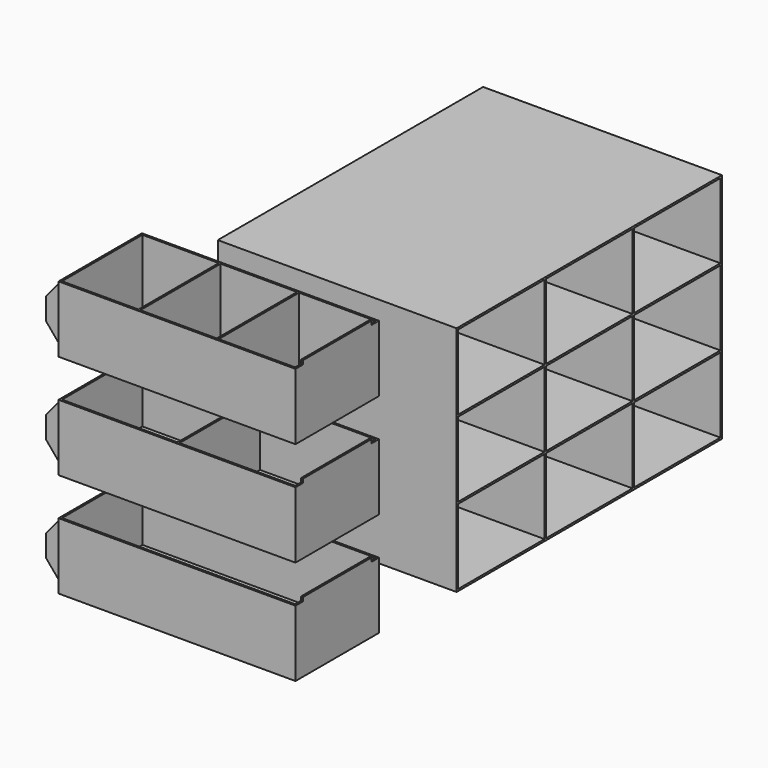
from build123d import *

# Parameters (mm, degrees)
F4_DEPTH  = 55
F3_W      = 1
F3_H      = 34
F3_W_2    = 123
F5_DEPTH  = 1
F3_W_3    = 40.3333333333
F3_W_4    = 61
F6_START  = 54
F6_DEPTH  = 1
F7_START  = 5
F3_H_2    = 2
F7_DEPTH  = 45
F8_START  = 5
F8_DEPTH  = 45
F9_START  = 50
F9_DEPTH  = 1
F10_START = 4
F10_DEPTH = 1
F12_DEPTH = 126
F11_W     = 57
F11_H     = 2.5
F13_DEPTH = 1
F15_DEPTH = 126.001


with BuildPart() as f4:
    # F3 (on Front) → F4 (new body)
    with BuildSketch(Plane.XZ):
        Polygon((0, 23.3333333333), (0, 11.6666666667), (0, 0), (125, 0), (125, 1), (125, 35), (124, 35), (124, 1), (1, 1), (1, 35), (0, 35), (0, 32.9691467762), align=None)
    extrude(amount=F4_DEPTH)

    # F3 (on Front) → F5 (join)
    with BuildSketch(Plane.XZ):
        with Locations((62.5, 18)):
            Rectangle(F3_W_2, F3_H)
    extrude(amount=F5_DEPTH)

    # F3 (on Front) → F6 (join)
    with BuildSketch(Plane.XZ.offset(F6_START)):
        with Locations((62.5, 18)):
            Rectangle(F3_W_2, F3_H)
    extrude(amount=F6_DEPTH)

    # F3 (on Front) → F7 (join)
    with BuildSketch(Plane.XZ.offset(F7_START)):
        with Locations((124.5, 36)):
            Rectangle(F3_W, F3_H_2)
    extrude(amount=F7_DEPTH)

    # F3 (on Front) → F8 (join)
    with BuildSketch(Plane.XZ.offset(F8_START)):
        Polygon((-9.7894956971, 11.6666666667), (-8.7894956971, 10.4749130741), (-8.7894956971, 22.4942337022), (0, 32.9691467762), (0, 35), (-9.7894956971, 23.3333333333), align=None)
    extrude(amount=F8_DEPTH)

    # F3 (on Front) → F9 (join)
    with BuildSketch(Plane.XZ.offset(F9_START)):
        Polygon((0, 0), (0, 11.6666666667), (0, 23.3333333333), (0, 32.9691467762), (-8.7894956971, 22.4942337022), (-8.7894956971, 10.4749130741), align=None)
        Polygon((-9.7894956971, 11.6666666667), (-8.7894956971, 10.4749130741), (-8.7894956971, 22.4942337022), (0, 32.9691467762), (0, 35), (-9.7894956971, 23.3333333333), align=None)
    extrude(amount=F9_DEPTH)

    # F3 (on Front) → F10 (join)
    with BuildSketch(Plane.XZ.offset(F10_START)):
        Polygon((0, 0), (0, 11.6666666667), (0, 23.3333333333), (0, 32.9691467762), (-8.7894956971, 22.4942337022), (-8.7894956971, 10.4749130741), align=None)
        Polygon((-9.7894956971, 11.6666666667), (-8.7894956971, 10.4749130741), (-8.7894956971, 22.4942337022), (0, 32.9691467762), (0, 35), (-9.7894956971, 23.3333333333), align=None)
    extrude(amount=F10_DEPTH)


with BuildPart() as f4b:
    # F3 (on Front) → F4, piece 2 (new body)
    with BuildSketch(Plane.XZ):
        Polygon((0, 78.3333333333), (0, 66.6666666667), (0, 55), (125, 55), (125, 56), (125, 90), (124, 90), (124, 56), (63, 56), (62, 56), (1, 56), (1, 90), (0, 90), (0, 87.9691467762), align=None)
        with Locations((62.5, 73)):
            Rectangle(F3_W, F3_H)
    extrude(amount=F4_DEPTH)

    # F3 (on Front) → F5, piece 3 (join)
    with BuildSketch(Plane.XZ):
        with Locations((93.5, 73)):
            Rectangle(F3_W_4, F3_H)
        with Locations((31.5, 73)):
            Rectangle(F3_W_4, F3_H)
    extrude(amount=F5_DEPTH)

    # F3 (on Front) → F6, piece 2 (join)
    with BuildSketch(Plane.XZ.offset(F6_START)):
        with Locations((31.5, 73)):
            Rectangle(F3_W_4, F3_H)
        with Locations((93.5, 73)):
            Rectangle(F3_W_4, F3_H)
    extrude(amount=F6_DEPTH)

    # F3 (on Front) → F7, piece 2 (join)
    with BuildSketch(Plane.XZ.offset(F7_START)):
        with Locations((124.5, 91)):
            Rectangle(F3_W, F3_H_2)
    extrude(amount=F7_DEPTH)

    # F3 (on Front) → F8, piece 2 (join)
    with BuildSketch(Plane.XZ.offset(F8_START)):
        Polygon((-9.7894956971, 66.6666666667), (-8.7894956971, 65.4749130741), (-8.7894956971, 77.4942337022), (0, 87.9691467762), (0, 90), (-9.7894956971, 78.3333333333), align=None)
    extrude(amount=F8_DEPTH)

    # F3 (on Front) → F9, piece 2 (join)
    with BuildSketch(Plane.XZ.offset(F9_START)):
        Polygon((0, 55), (0, 66.6666666667), (0, 78.3333333333), (0, 87.9691467762), (-8.7894956971, 77.4942337022), (-8.7894956971, 65.4749130741), align=None)
        Polygon((-9.7894956971, 66.6666666667), (-8.7894956971, 65.4749130741), (-8.7894956971, 77.4942337022), (0, 87.9691467762), (0, 90), (-9.7894956971, 78.3333333333), align=None)
    extrude(amount=F9_DEPTH)

    # F3 (on Front) → F10, piece 2 (join)
    with BuildSketch(Plane.XZ.offset(F10_START)):
        Polygon((-9.7894956971, 66.6666666667), (-8.7894956971, 65.4749130741), (-8.7894956971, 77.4942337022), (0, 87.9691467762), (0, 90), (-9.7894956971, 78.3333333333), align=None)
        Polygon((0, 55), (0, 66.6666666667), (0, 78.3333333333), (0, 87.9691467762), (-8.7894956971, 77.4942337022), (-8.7894956971, 65.4749130741), align=None)
    extrude(amount=F10_DEPTH)


with BuildPart() as f4c:
    # F3 (on Front) → F4, piece 3 (new body)
    with BuildSketch(Plane.XZ):
        Polygon((0, 133.3333333333), (0, 121.6666666667), (0, 110), (125, 110), (125, 111), (125, 145), (124, 145), (124, 111), (83.6666666667, 111), (82.6666666667, 111), (42.3333333333, 111), (41.3333333333, 111), (1, 111), (1, 145), (0, 145), (0, 142.9691467762), align=None)
        with Locations((41.8333333333, 128)):
            Rectangle(F3_W, F3_H)
        with Locations((83.1666666667, 128)):
            Rectangle(F3_W, F3_H)
    extrude(amount=F4_DEPTH)

    # F3 (on Front) → F5, piece 2 (join)
    with BuildSketch(Plane.XZ):
        with Locations((21.1666666667, 128)):
            Rectangle(F3_W_3, F3_H)
        with Locations((62.5, 128)):
            Rectangle(F3_W_3, F3_H)
        with Locations((103.8333333333, 128)):
            Rectangle(F3_W_3, F3_H)
    extrude(amount=F5_DEPTH)

    # F3 (on Front) → F6, piece 3 (join)
    with BuildSketch(Plane.XZ.offset(F6_START)):
        with Locations((21.1666666667, 128)):
            Rectangle(F3_W_3, F3_H)
        with Locations((62.5, 128)):
            Rectangle(F3_W_3, F3_H)
        with Locations((103.8333333333, 128)):
            Rectangle(F3_W_3, F3_H)
    extrude(amount=F6_DEPTH)

    # F3 (on Front) → F7, piece 3 (join)
    with BuildSketch(Plane.XZ.offset(F7_START)):
        with Locations((124.5, 146)):
            Rectangle(F3_W, F3_H_2)
    extrude(amount=F7_DEPTH)

    # F3 (on Front) → F8, piece 3 (join)
    with BuildSketch(Plane.XZ.offset(F8_START)):
        Polygon((-9.7894956971, 121.6666666667), (-8.7894956971, 120.4749130741), (-8.7894956971, 132.4942337022), (0, 142.9691467762), (0, 145), (-9.7894956971, 133.3333333333), align=None)
    extrude(amount=F8_DEPTH)

    # F3 (on Front) → F9, piece 3 (join)
    with BuildSketch(Plane.XZ.offset(F9_START)):
        Polygon((-9.7894956971, 121.6666666667), (-8.7894956971, 120.4749130741), (-8.7894956971, 132.4942337022), (0, 142.9691467762), (0, 145), (-9.7894956971, 133.3333333333), align=None)
        Polygon((0, 110), (0, 121.6666666667), (0, 133.3333333333), (0, 142.9691467762), (-8.7894956971, 132.4942337022), (-8.7894956971, 120.4749130741), align=None)
    extrude(amount=F9_DEPTH)

    # F3 (on Front) → F10, piece 3 (join)
    with BuildSketch(Plane.XZ.offset(F10_START)):
        Polygon((-9.7894956971, 121.6666666667), (-8.7894956971, 120.4749130741), (-8.7894956971, 132.4942337022), (0, 142.9691467762), (0, 145), (-9.7894956971, 133.3333333333), align=None)
        Polygon((0, 110), (0, 121.6666666667), (0, 133.3333333333), (0, 142.9691467762), (-8.7894956971, 132.4942337022), (-8.7894956971, 120.4749130741), align=None)
    extrude(amount=F10_DEPTH)


with BuildPart() as f12:
    # F11 (on Right) → F12 (new body)
    with BuildSketch(Plane.YZ):
        Polygon((50, 0), (50, -1), (51, -1), (108, -1), (109, -1), (166, -1), (167, -1), (224, -1), (225, -1), (282, -1), (283, -1), (340, -1), (341, -1), (398, -1), (399, -1), (456, -1), (457, -1), (514, -1), (515, -1), (572, -1), (573, -1), (630, -1), (631, -1), (631, 405), (50, 405), (50, 404), (50, 401.5), (50, 364.5), (50, 363.5), (50, 361), (50, 324), (50, 323), (50, 320.5), (50, 283.5), (50, 282.5), (50, 280), (50, 243), (50, 242), (50, 239.5), (50, 202.5), (50, 201.5), (50, 199), (50, 162), (50, 161), (50, 158.5), (50, 121.5), (50, 120.5), (50, 118), (50, 81), (50, 80), (50, 77.5), (50, 40.5), (50, 39.5), (50, 37), align=None)
        Polygon((108, 0), (51, 0), (51, 37), (51, 39.5), (108, 39.5), (108, 37), align=None, mode=Mode.SUBTRACT)
        Polygon((166, 0), (109, 0), (109, 37), (109, 39.5), (166, 39.5), (166, 37), align=None, mode=Mode.SUBTRACT)
        Polygon((51, 77.5), (51, 80), (108, 80), (108, 77.5), (108, 40.5), (51, 40.5), align=None, mode=Mode.SUBTRACT)
        Polygon((166, 40.5), (109, 40.5), (109, 77.5), (109, 80), (166, 80), (166, 77.5), align=None, mode=Mode.SUBTRACT)
        Polygon((224, 0), (167, 0), (167, 37), (167, 39.5), (224, 39.5), (224, 37), align=None, mode=Mode.SUBTRACT)
        Polygon((282, 0), (225, 0), (225, 37), (225, 39.5), (282, 39.5), (282, 37), align=None, mode=Mode.SUBTRACT)
        Polygon((340, 0), (283, 0), (283, 37), (283, 39.5), (340, 39.5), (340, 37), align=None, mode=Mode.SUBTRACT)
        Polygon((224, 40.5), (167, 40.5), (167, 77.5), (167, 80), (224, 80), (224, 77.5), align=None, mode=Mode.SUBTRACT)
        Polygon((225, 77.5), (225, 80), (282, 80), (282, 77.5), (282, 40.5), (225, 40.5), align=None, mode=Mode.SUBTRACT)
        Polygon((340, 40.5), (283, 40.5), (283, 77.5), (283, 80), (340, 80), (340, 77.5), align=None, mode=Mode.SUBTRACT)
        Polygon((51, 118), (51, 120.5), (108, 120.5), (108, 118), (108, 81), (51, 81), align=None, mode=Mode.SUBTRACT)
        Polygon((108, 121.5), (51, 121.5), (51, 158.5), (51, 161), (108, 161), (108, 158.5), align=None, mode=Mode.SUBTRACT)
        Polygon((166, 118), (166, 81), (109, 81), (109, 118), (109, 120.5), (166, 120.5), align=None, mode=Mode.SUBTRACT)
        Polygon((166, 121.5), (109, 121.5), (109, 158.5), (109, 161), (166, 161), (166, 158.5), align=None, mode=Mode.SUBTRACT)
        Polygon((51, 199), (51, 201.5), (108, 201.5), (108, 199), (108, 162), (51, 162), align=None, mode=Mode.SUBTRACT)
        Polygon((166, 162), (109, 162), (109, 199), (109, 201.5), (166, 201.5), (166, 199), align=None, mode=Mode.SUBTRACT)
        Polygon((224, 118), (224, 81), (167, 81), (167, 118), (167, 120.5), (224, 120.5), align=None, mode=Mode.SUBTRACT)
        Polygon((225, 118), (225, 120.5), (282, 120.5), (282, 118), (282, 81), (225, 81), align=None, mode=Mode.SUBTRACT)
        Polygon((224, 121.5), (167, 121.5), (167, 158.5), (167, 161), (224, 161), (224, 158.5), align=None, mode=Mode.SUBTRACT)
        Polygon((282, 121.5), (225, 121.5), (225, 158.5), (225, 161), (282, 161), (282, 158.5), align=None, mode=Mode.SUBTRACT)
        Polygon((340, 118), (340, 81), (283, 81), (283, 118), (283, 120.5), (340, 120.5), align=None, mode=Mode.SUBTRACT)
        Polygon((340, 121.5), (283, 121.5), (283, 158.5), (283, 161), (340, 161), (340, 158.5), align=None, mode=Mode.SUBTRACT)
        Polygon((224, 162), (167, 162), (167, 199), (167, 201.5), (224, 201.5), (224, 199), align=None, mode=Mode.SUBTRACT)
        Polygon((225, 199), (225, 201.5), (282, 201.5), (282, 199), (282, 162), (225, 162), align=None, mode=Mode.SUBTRACT)
        Polygon((340, 162), (283, 162), (283, 199), (283, 201.5), (340, 201.5), (340, 199), align=None, mode=Mode.SUBTRACT)
        Polygon((398, 0), (341, 0), (341, 37), (341, 39.5), (398, 39.5), (398, 37), align=None, mode=Mode.SUBTRACT)
        Polygon((456, 0), (399, 0), (399, 37), (399, 39.5), (456, 39.5), (456, 37), align=None, mode=Mode.SUBTRACT)
        Polygon((514, 0), (457, 0), (457, 37), (457, 39.5), (514, 39.5), (514, 37), align=None, mode=Mode.SUBTRACT)
        Polygon((398, 40.5), (341, 40.5), (341, 77.5), (341, 80), (398, 80), (398, 77.5), align=None, mode=Mode.SUBTRACT)
        Polygon((456, 40.5), (399, 40.5), (399, 77.5), (399, 80), (456, 80), (456, 77.5), align=None, mode=Mode.SUBTRACT)
        Polygon((457, 77.5), (457, 80), (514, 80), (514, 77.5), (514, 40.5), (457, 40.5), align=None, mode=Mode.SUBTRACT)
        Polygon((572, 0), (515, 0), (515, 37), (515, 39.5), (572, 39.5), (572, 37), align=None, mode=Mode.SUBTRACT)
        Polygon((630, 0), (573, 0), (573, 37), (573, 39.5), (630, 39.5), (630, 37), align=None, mode=Mode.SUBTRACT)
        Polygon((572, 40.5), (515, 40.5), (515, 77.5), (515, 80), (572, 80), (572, 77.5), align=None, mode=Mode.SUBTRACT)
        Polygon((630, 40.5), (573, 40.5), (573, 77.5), (573, 80), (630, 80), (630, 77.5), align=None, mode=Mode.SUBTRACT)
        Polygon((398, 118), (398, 81), (341, 81), (341, 118), (341, 120.5), (398, 120.5), align=None, mode=Mode.SUBTRACT)
        Polygon((398, 121.5), (341, 121.5), (341, 158.5), (341, 161), (398, 161), (398, 158.5), align=None, mode=Mode.SUBTRACT)
        Polygon((456, 118), (456, 81), (399, 81), (399, 118), (399, 120.5), (456, 120.5), align=None, mode=Mode.SUBTRACT)
        Polygon((457, 118), (457, 120.5), (514, 120.5), (514, 118), (514, 81), (457, 81), align=None, mode=Mode.SUBTRACT)
        Polygon((456, 121.5), (399, 121.5), (399, 158.5), (399, 161), (456, 161), (456, 158.5), align=None, mode=Mode.SUBTRACT)
        Polygon((514, 121.5), (457, 121.5), (457, 158.5), (457, 161), (514, 161), (514, 158.5), align=None, mode=Mode.SUBTRACT)
        Polygon((398, 162), (341, 162), (341, 199), (341, 201.5), (398, 201.5), (398, 199), align=None, mode=Mode.SUBTRACT)
        Polygon((456, 162), (399, 162), (399, 199), (399, 201.5), (456, 201.5), (456, 199), align=None, mode=Mode.SUBTRACT)
        Polygon((457, 199), (457, 201.5), (514, 201.5), (514, 199), (514, 162), (457, 162), align=None, mode=Mode.SUBTRACT)
        Polygon((572, 118), (572, 81), (515, 81), (515, 118), (515, 120.5), (572, 120.5), align=None, mode=Mode.SUBTRACT)
        Polygon((572, 121.5), (515, 121.5), (515, 158.5), (515, 161), (572, 161), (572, 158.5), align=None, mode=Mode.SUBTRACT)
        Polygon((630, 118), (630, 81), (573, 81), (573, 118), (573, 120.5), (630, 120.5), align=None, mode=Mode.SUBTRACT)
        Polygon((630, 121.5), (573, 121.5), (573, 158.5), (573, 161), (630, 161), (630, 158.5), align=None, mode=Mode.SUBTRACT)
        Polygon((572, 162), (515, 162), (515, 199), (515, 201.5), (572, 201.5), (572, 199), align=None, mode=Mode.SUBTRACT)
        Polygon((630, 162), (573, 162), (573, 199), (573, 201.5), (630, 201.5), (630, 199), align=None, mode=Mode.SUBTRACT)
        Polygon((51, 239.5), (51, 242), (108, 242), (108, 239.5), (108, 202.5), (51, 202.5), align=None, mode=Mode.SUBTRACT)
        Polygon((166, 239.5), (166, 202.5), (109, 202.5), (109, 239.5), (109, 242), (166, 242), align=None, mode=Mode.SUBTRACT)
        Polygon((108, 243), (51, 243), (51, 280), (51, 282.5), (108, 282.5), (108, 280), align=None, mode=Mode.SUBTRACT)
        Polygon((51, 320.5), (51, 323), (108, 323), (108, 320.5), (108, 283.5), (51, 283.5), align=None, mode=Mode.SUBTRACT)
        Polygon((166, 243), (109, 243), (109, 280), (109, 282.5), (166, 282.5), (166, 280), align=None, mode=Mode.SUBTRACT)
        Polygon((166, 283.5), (109, 283.5), (109, 320.5), (109, 323), (166, 323), (166, 320.5), align=None, mode=Mode.SUBTRACT)
        Polygon((224, 239.5), (224, 202.5), (167, 202.5), (167, 239.5), (167, 242), (224, 242), align=None, mode=Mode.SUBTRACT)
        Polygon((225, 239.5), (225, 242), (282, 242), (282, 239.5), (282, 202.5), (225, 202.5), align=None, mode=Mode.SUBTRACT)
        Polygon((340, 239.5), (340, 202.5), (283, 202.5), (283, 239.5), (283, 242), (340, 242), align=None, mode=Mode.SUBTRACT)
        Polygon((224, 243), (167, 243), (167, 280), (167, 282.5), (224, 282.5), (224, 280), align=None, mode=Mode.SUBTRACT)
        Polygon((282, 243), (225, 243), (225, 280), (225, 282.5), (282, 282.5), (282, 280), align=None, mode=Mode.SUBTRACT)
        Polygon((224, 283.5), (167, 283.5), (167, 320.5), (167, 323), (224, 323), (224, 320.5), align=None, mode=Mode.SUBTRACT)
        Polygon((225, 320.5), (225, 323), (282, 323), (282, 320.5), (282, 283.5), (225, 283.5), align=None, mode=Mode.SUBTRACT)
        Polygon((340, 243), (283, 243), (283, 280), (283, 282.5), (340, 282.5), (340, 280), align=None, mode=Mode.SUBTRACT)
        Polygon((340, 283.5), (283, 283.5), (283, 320.5), (283, 323), (340, 323), (340, 320.5), align=None, mode=Mode.SUBTRACT)
        Polygon((51, 361), (51, 363.5), (108, 363.5), (108, 361), (108, 324), (51, 324), align=None, mode=Mode.SUBTRACT)
        Polygon((166, 361), (166, 324), (109, 324), (109, 361), (109, 363.5), (166, 363.5), align=None, mode=Mode.SUBTRACT)
        Polygon((51, 401.5), (51, 404), (108, 404), (108, 401.5), (108, 364.5), (51, 364.5), align=None, mode=Mode.SUBTRACT)
        Polygon((166, 401.5), (166, 364.5), (109, 364.5), (109, 401.5), (109, 404), (166, 404), align=None, mode=Mode.SUBTRACT)
        Polygon((224, 361), (224, 324), (167, 324), (167, 361), (167, 363.5), (224, 363.5), align=None, mode=Mode.SUBTRACT)
        Polygon((225, 361), (225, 363.5), (282, 363.5), (282, 361), (282, 324), (225, 324), align=None, mode=Mode.SUBTRACT)
        Polygon((340, 361), (340, 324), (283, 324), (283, 361), (283, 363.5), (340, 363.5), align=None, mode=Mode.SUBTRACT)
        Polygon((224, 401.5), (224, 364.5), (167, 364.5), (167, 401.5), (167, 404), (224, 404), align=None, mode=Mode.SUBTRACT)
        Polygon((225, 401.5), (225, 404), (282, 404), (282, 401.5), (282, 364.5), (225, 364.5), align=None, mode=Mode.SUBTRACT)
        Polygon((340, 401.5), (340, 364.5), (283, 364.5), (283, 401.5), (283, 404), (340, 404), align=None, mode=Mode.SUBTRACT)
        Polygon((398, 239.5), (398, 202.5), (341, 202.5), (341, 239.5), (341, 242), (398, 242), align=None, mode=Mode.SUBTRACT)
        Polygon((456, 239.5), (456, 202.5), (399, 202.5), (399, 239.5), (399, 242), (456, 242), align=None, mode=Mode.SUBTRACT)
        Polygon((457, 239.5), (457, 242), (514, 242), (514, 239.5), (514, 202.5), (457, 202.5), align=None, mode=Mode.SUBTRACT)
        Polygon((398, 243), (341, 243), (341, 280), (341, 282.5), (398, 282.5), (398, 280), align=None, mode=Mode.SUBTRACT)
        Polygon((398, 283.5), (341, 283.5), (341, 320.5), (341, 323), (398, 323), (398, 320.5), align=None, mode=Mode.SUBTRACT)
        Polygon((456, 243), (399, 243), (399, 280), (399, 282.5), (456, 282.5), (456, 280), align=None, mode=Mode.SUBTRACT)
        Polygon((514, 243), (457, 243), (457, 280), (457, 282.5), (514, 282.5), (514, 280), align=None, mode=Mode.SUBTRACT)
        Polygon((456, 283.5), (399, 283.5), (399, 320.5), (399, 323), (456, 323), (456, 320.5), align=None, mode=Mode.SUBTRACT)
        Polygon((457, 320.5), (457, 323), (514, 323), (514, 320.5), (514, 283.5), (457, 283.5), align=None, mode=Mode.SUBTRACT)
        Polygon((572, 239.5), (572, 202.5), (515, 202.5), (515, 239.5), (515, 242), (572, 242), align=None, mode=Mode.SUBTRACT)
        Polygon((630, 239.5), (630, 202.5), (573, 202.5), (573, 239.5), (573, 242), (630, 242), align=None, mode=Mode.SUBTRACT)
        Polygon((572, 243), (515, 243), (515, 280), (515, 282.5), (572, 282.5), (572, 280), align=None, mode=Mode.SUBTRACT)
        Polygon((572, 283.5), (515, 283.5), (515, 320.5), (515, 323), (572, 323), (572, 320.5), align=None, mode=Mode.SUBTRACT)
        Polygon((630, 243), (573, 243), (573, 280), (573, 282.5), (630, 282.5), (630, 280), align=None, mode=Mode.SUBTRACT)
        Polygon((630, 283.5), (573, 283.5), (573, 320.5), (573, 323), (630, 323), (630, 320.5), align=None, mode=Mode.SUBTRACT)
        Polygon((398, 361), (398, 324), (341, 324), (341, 361), (341, 363.5), (398, 363.5), align=None, mode=Mode.SUBTRACT)
        Polygon((456, 361), (456, 324), (399, 324), (399, 361), (399, 363.5), (456, 363.5), align=None, mode=Mode.SUBTRACT)
        Polygon((457, 361), (457, 363.5), (514, 363.5), (514, 361), (514, 324), (457, 324), align=None, mode=Mode.SUBTRACT)
        Polygon((398, 401.5), (398, 364.5), (341, 364.5), (341, 401.5), (341, 404), (398, 404), align=None, mode=Mode.SUBTRACT)
        Polygon((456, 401.5), (456, 364.5), (399, 364.5), (399, 401.5), (399, 404), (456, 404), align=None, mode=Mode.SUBTRACT)
        Polygon((457, 401.5), (457, 404), (514, 404), (514, 401.5), (514, 364.5), (457, 364.5), align=None, mode=Mode.SUBTRACT)
        Polygon((572, 361), (572, 324), (515, 324), (515, 361), (515, 363.5), (572, 363.5), align=None, mode=Mode.SUBTRACT)
        Polygon((630, 361), (630, 324), (573, 324), (573, 361), (573, 363.5), (630, 363.5), align=None, mode=Mode.SUBTRACT)
        Polygon((572, 401.5), (572, 364.5), (515, 364.5), (515, 401.5), (515, 404), (572, 404), align=None, mode=Mode.SUBTRACT)
        Polygon((630, 401.5), (630, 364.5), (573, 364.5), (573, 401.5), (573, 404), (630, 404), align=None, mode=Mode.SUBTRACT)
    extrude(amount=F12_DEPTH)

    # F11 (on Right) → F13 (join)
    with BuildSketch(Plane.YZ):
        with Locations((79.5, 119.25)):
            Rectangle(F11_W, F11_H)
        with Locations((137.5, 119.25)):
            Rectangle(F11_W, F11_H)
        with Locations((195.5, 119.25)):
            Rectangle(F11_W, F11_H)
        with Locations((195.5, 78.75)):
            Rectangle(F11_W, F11_H)
        with Locations((137.5, 78.75)):
            Rectangle(F11_W, F11_H)
        with Locations((79.5, 78.75)):
            Rectangle(F11_W, F11_H)
        with Locations((79.5, 38.25)):
            Rectangle(F11_W, F11_H)
        with Locations((137.5, 38.25)):
            Rectangle(F11_W, F11_H)
        with Locations((195.5, 38.25)):
            Rectangle(F11_W, F11_H)
        with Locations((195.5, 159.75)):
            Rectangle(F11_W, F11_H)
        with Locations((137.5, 159.75)):
            Rectangle(F11_W, F11_H)
        with Locations((79.5, 159.75)):
            Rectangle(F11_W, F11_H)
        with Locations((79.5, 200.25)):
            Rectangle(F11_W, F11_H)
        with Locations((137.5, 200.25)):
            Rectangle(F11_W, F11_H)
        with Locations((195.5, 200.25)):
            Rectangle(F11_W, F11_H)
        with Locations((195.5, 240.75)):
            Rectangle(F11_W, F11_H)
        with Locations((137.5, 240.75)):
            Rectangle(F11_W, F11_H)
        with Locations((79.5, 240.75)):
            Rectangle(F11_W, F11_H)
        with Locations((79.5, 281.25)):
            Rectangle(F11_W, F11_H)
        with Locations((137.5, 281.25)):
            Rectangle(F11_W, F11_H)
        with Locations((195.5, 281.25)):
            Rectangle(F11_W, F11_H)
        with Locations((195.5, 321.75)):
            Rectangle(F11_W, F11_H)
        with Locations((137.5, 321.75)):
            Rectangle(F11_W, F11_H)
        with Locations((79.5, 321.75)):
            Rectangle(F11_W, F11_H)
        with Locations((79.5, 362.25)):
            Rectangle(F11_W, F11_H)
        with Locations((137.5, 362.25)):
            Rectangle(F11_W, F11_H)
        with Locations((195.5, 362.25)):
            Rectangle(F11_W, F11_H)
        with Locations((253.5, 362.25)):
            Rectangle(F11_W, F11_H)
        with Locations((311.5, 362.25)):
            Rectangle(F11_W, F11_H)
        with Locations((369.5, 362.25)):
            Rectangle(F11_W, F11_H)
        with Locations((427.5, 362.25)):
            Rectangle(F11_W, F11_H)
        with Locations((427.5, 321.75)):
            Rectangle(F11_W, F11_H)
        with Locations((369.5, 321.75)):
            Rectangle(F11_W, F11_H)
        with Locations((311.5, 321.75)):
            Rectangle(F11_W, F11_H)
        with Locations((253.5, 321.75)):
            Rectangle(F11_W, F11_H)
        with Locations((253.5, 281.25)):
            Rectangle(F11_W, F11_H)
        with Locations((311.5, 281.25)):
            Rectangle(F11_W, F11_H)
        with Locations((369.5, 281.25)):
            Rectangle(F11_W, F11_H)
        with Locations((427.5, 281.25)):
            Rectangle(F11_W, F11_H)
        with Locations((427.5, 240.75)):
            Rectangle(F11_W, F11_H)
        with Locations((369.5, 240.75)):
            Rectangle(F11_W, F11_H)
        with Locations((311.5, 240.75)):
            Rectangle(F11_W, F11_H)
        with Locations((253.5, 240.75)):
            Rectangle(F11_W, F11_H)
        with Locations((253.5, 200.25)):
            Rectangle(F11_W, F11_H)
        with Locations((311.5, 200.25)):
            Rectangle(F11_W, F11_H)
        with Locations((369.5, 200.25)):
            Rectangle(F11_W, F11_H)
        with Locations((427.5, 200.25)):
            Rectangle(F11_W, F11_H)
        with Locations((427.5, 159.75)):
            Rectangle(F11_W, F11_H)
        with Locations((369.5, 159.75)):
            Rectangle(F11_W, F11_H)
        with Locations((311.5, 159.75)):
            Rectangle(F11_W, F11_H)
        with Locations((253.5, 159.75)):
            Rectangle(F11_W, F11_H)
        with Locations((253.5, 119.25)):
            Rectangle(F11_W, F11_H)
        with Locations((311.5, 119.25)):
            Rectangle(F11_W, F11_H)
        with Locations((369.5, 119.25)):
            Rectangle(F11_W, F11_H)
        with Locations((427.5, 119.25)):
            Rectangle(F11_W, F11_H)
        with Locations((427.5, 78.75)):
            Rectangle(F11_W, F11_H)
        with Locations((369.5, 78.75)):
            Rectangle(F11_W, F11_H)
        with Locations((311.5, 78.75)):
            Rectangle(F11_W, F11_H)
        with Locations((253.5, 78.75)):
            Rectangle(F11_W, F11_H)
        with Locations((253.5, 38.25)):
            Rectangle(F11_W, F11_H)
        with Locations((311.5, 38.25)):
            Rectangle(F11_W, F11_H)
        with Locations((369.5, 38.25)):
            Rectangle(F11_W, F11_H)
        with Locations((427.5, 38.25)):
            Rectangle(F11_W, F11_H)
        with Locations((79.5, 402.75)):
            Rectangle(F11_W, F11_H)
        with Locations((137.5, 402.75)):
            Rectangle(F11_W, F11_H)
        with Locations((195.5, 402.75)):
            Rectangle(F11_W, F11_H)
        with Locations((253.5, 402.75)):
            Rectangle(F11_W, F11_H)
        with Locations((311.5, 402.75)):
            Rectangle(F11_W, F11_H)
        with Locations((369.5, 402.75)):
            Rectangle(F11_W, F11_H)
        with Locations((427.5, 402.75)):
            Rectangle(F11_W, F11_H)
        with Locations((485.5, 402.75)):
            Rectangle(F11_W, F11_H)
        with Locations((485.5, 362.25)):
            Rectangle(F11_W, F11_H)
        with Locations((485.5, 321.75)):
            Rectangle(F11_W, F11_H)
        with Locations((485.5, 281.25)):
            Rectangle(F11_W, F11_H)
        with Locations((485.5, 240.75)):
            Rectangle(F11_W, F11_H)
        with Locations((485.5, 200.25)):
            Rectangle(F11_W, F11_H)
        with Locations((485.5, 159.75)):
            Rectangle(F11_W, F11_H)
        with Locations((485.5, 119.25)):
            Rectangle(F11_W, F11_H)
        with Locations((485.5, 78.75)):
            Rectangle(F11_W, F11_H)
        with Locations((485.5, 38.25)):
            Rectangle(F11_W, F11_H)
        with Locations((543.5, 402.75)):
            Rectangle(F11_W, F11_H)
        with Locations((601.5, 402.75)):
            Rectangle(F11_W, F11_H)
        with Locations((543.5, 362.25)):
            Rectangle(F11_W, F11_H)
        with Locations((601.5, 362.25)):
            Rectangle(F11_W, F11_H)
        with Locations((543.5, 321.75)):
            Rectangle(F11_W, F11_H)
        with Locations((601.5, 321.75)):
            Rectangle(F11_W, F11_H)
        with Locations((601.5, 281.25)):
            Rectangle(F11_W, F11_H)
        with Locations((543.5, 240.75)):
            Rectangle(F11_W, F11_H)
        with Locations((601.5, 240.75)):
            Rectangle(F11_W, F11_H)
        with Locations((543.5, 200.25)):
            Rectangle(F11_W, F11_H)
        with Locations((601.5, 200.25)):
            Rectangle(F11_W, F11_H)
        with Locations((543.5, 159.75)):
            Rectangle(F11_W, F11_H)
        with Locations((601.5, 159.75)):
            Rectangle(F11_W, F11_H)
        with Locations((543.5, 119.25)):
            Rectangle(F11_W, F11_H)
        with Locations((601.5, 119.25)):
            Rectangle(F11_W, F11_H)
        with Locations((543.5, 78.75)):
            Rectangle(F11_W, F11_H)
        with Locations((601.5, 78.75)):
            Rectangle(F11_W, F11_H)
        with Locations((543.5, 38.25)):
            Rectangle(F11_W, F11_H)
        with Locations((601.5, 38.25)):
            Rectangle(F11_W, F11_H)
        with Locations((543.5, 281.25)):
            Rectangle(F11_W, F11_H)
    extrude(amount=F13_DEPTH)

    # F14 (on Right) → F15 (cut, through all)
    with BuildSketch(Plane.YZ):
        Polygon((50, 405), (50, 121.5), (225, 121.5), (225, -1), (631, -1), (631, 405), align=None)
    extrude(amount=F15_DEPTH, mode=Mode.SUBTRACT)


solid = Compound([f4.part, f4b.part, f4c.part, f12.part])
